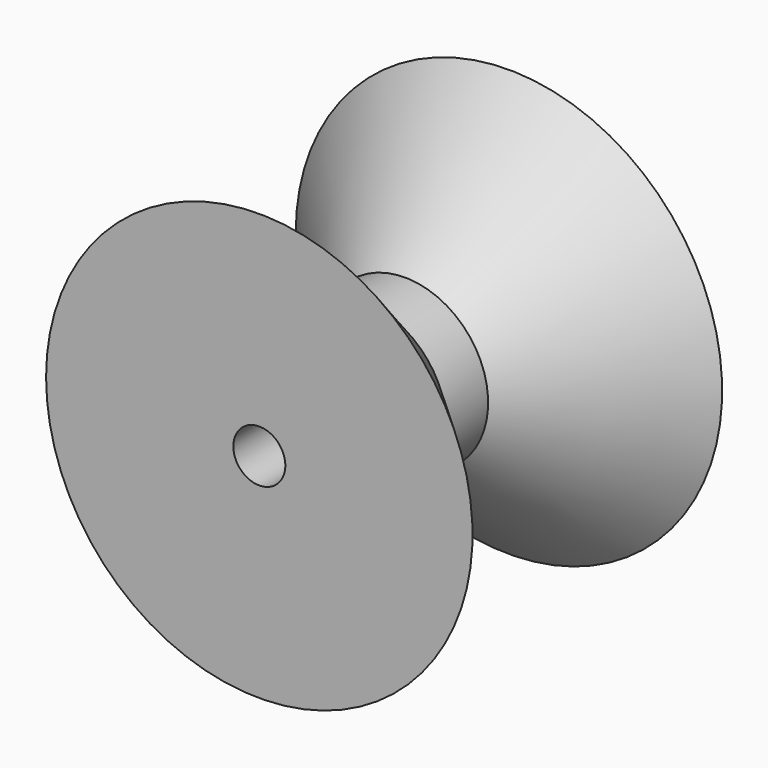
from build123d import *

# Parameters (mm, degrees)
F2_R     = 2.5
F3_DEPTH = 30


with BuildPart() as f1:
    # F0 (on Top) → F1 (revolve)
    with BuildSketch(Plane.XY):
        Polygon((-20.5, 0), (0, 0), (0, 30), (-20.5, 30), (-8, 17.5), (-8, 12.5), align=None)
    revolve(axis=Axis((0, 15, 0), (0, 1, 0)))

    # F2 (on face) → F3 (cut, through all)
    with BuildSketch(Plane(origin=(0, 30, 0), x_dir=(-1, 0, 0), z_dir=(0, 1, 0))):
        Circle(F2_R)
    extrude(amount=-F3_DEPTH, mode=Mode.SUBTRACT)


solid = f1.part
